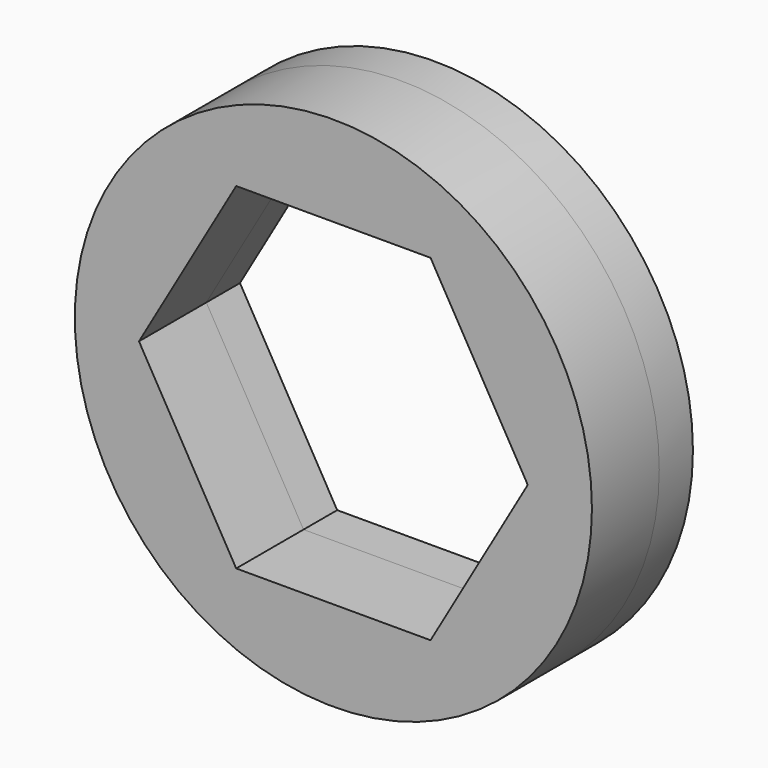
from build123d import *

# Parameters (mm, degrees)
F0_R     = 9.7536
F1_DEPTH = 1.5875
F2_R     = 9.7536
F3_DEPTH = 3.175


with BuildPart() as f1:
    # F0 (on Front) → F1 (new body)
    with BuildSketch(Plane.XZ):
        Circle(F0_R)
        Polygon((-3.666174, -6.35), (-7.332348, 0), (-3.666174, 6.35), (3.666174, 6.35), (7.332348, 0), (3.666174, -6.35), align=None, mode=Mode.SUBTRACT)
    extrude(amount=F1_DEPTH)


with BuildPart() as f3:
    # F2 (on face) → F3 (new body)
    with BuildSketch(Plane.XZ.offset(1.5875)):
        Circle(F2_R)
        Polygon((-7.332348, 0), (-3.666174, 6.35), (3.666174, 6.35), (7.332348, 0), (3.666174, -6.35), (-3.666174, -6.35), align=None, mode=Mode.SUBTRACT)
    extrude(amount=F3_DEPTH)


solid = Compound([f1.part, f3.part])
